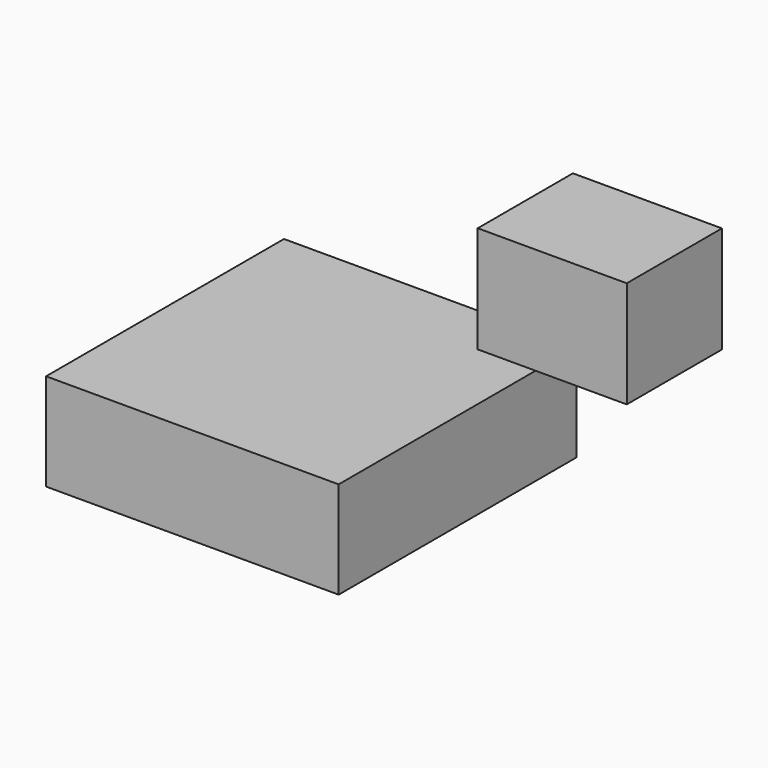
from build123d import *

# Parameters (mm, degrees)
F0_W     = 124.9604
F0_H     = 41.480301
F1_DEPTH = 63.5
F0_W_2   = 33.762235
F0_H_2   = 10.810844
F2_DEPTH = 25.4


with BuildPart() as f1:
    # F0 (on Front) → F1 (new body, symmetric)
    with BuildSketch(Plane.XZ):
        with Locations((0, -10.3701)):
            Rectangle(F0_W, F0_H)
    extrude(amount=F1_DEPTH, both=True)

    # F0 (on Front) → F2 (join, symmetric)
    with BuildSketch(Plane.XZ):
        with Locations((0, -10.3701)):
            Rectangle(F0_W, F0_H)
        with Locations((108.265715, 69.946056)):
            Rectangle(F0_W_2, F0_H_2)
        Polygon((125.146832, 64.540634), (91.384597, 64.540634), (91.384597, 55.035133), (155.032657, 55.035133), (155.032657, 100.581463), (91.384597, 100.581463), (91.384597, 75.351478), (125.146832, 75.351478), align=None)
    extrude(amount=F2_DEPTH, both=True)


solid = f1.part
